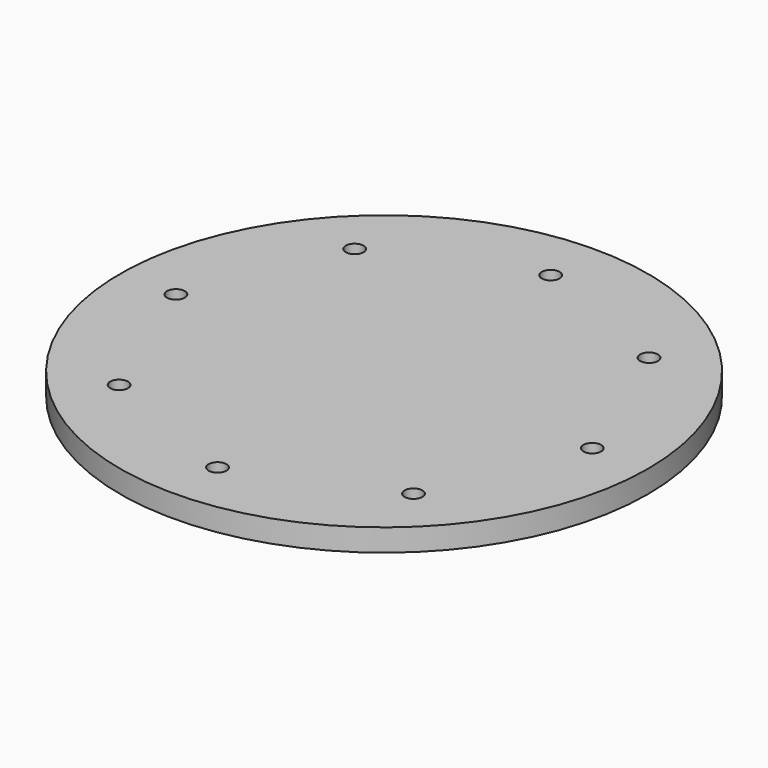
from build123d import *

# Parameters (mm, degrees)
F0_R     = 355
F0_R_2   = 12
F1_DEPTH = 30


with BuildPart() as f1:
    # F0 (on Top) → F1 (new body)
    with BuildSketch(Plane.XY):
        Circle(F0_R)
        with Locations((-197.989899, -197.989899)):
            Circle(F0_R_2, mode=Mode.SUBTRACT)
        with Locations((0, -280)):
            Circle(F0_R_2, mode=Mode.SUBTRACT)
        with Locations((197.989899, -197.989899)):
            Circle(F0_R_2, mode=Mode.SUBTRACT)
        with Locations((-280, 0)):
            Circle(F0_R_2, mode=Mode.SUBTRACT)
        with Locations((-197.989899, 197.989899)):
            Circle(F0_R_2, mode=Mode.SUBTRACT)
        with BuildLine():
            ThreePointArc((292, 0), (280, -12), (268, 0))
            ThreePointArc((268, 0), (280, 12), (292, 0))
        make_face(mode=Mode.SUBTRACT)
        with Locations((0, 280)):
            Circle(F0_R_2, mode=Mode.SUBTRACT)
        with Locations((197.989899, 197.989899)):
            Circle(F0_R_2, mode=Mode.SUBTRACT)
    extrude(amount=F1_DEPTH)


solid = f1.part
